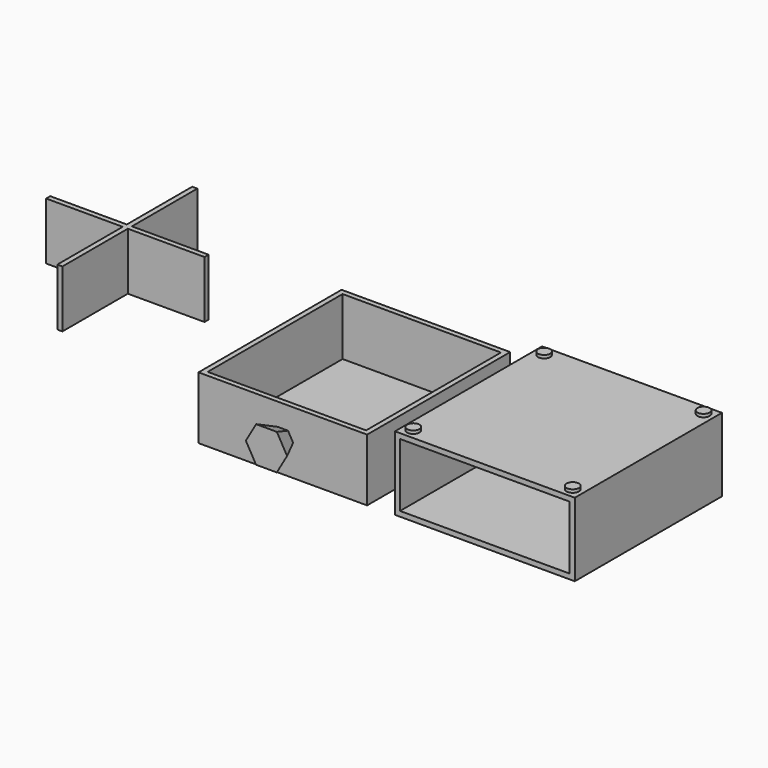
from build123d import *

# Parameters (mm, degrees)
F0_W      = 166
F0_H      = 62
F1_DEPTH  = 5
F0_W_2    = 176
F0_H_2    = 72
F2_DEPTH  = 180
F3_W      = 165
F3_H      = 61
F4_DEPTH  = 175
F5_T      = -5
F10_R     = 6
F11_DEPTH = 75
F10_R_2   = 7
F12_DEPTH = 3
F13_DEPTH = 314
F14_DEPTH = 5
F15_W     = 5
F15_H     = 80
F15_W_2   = 75
F15_H_2   = 5
F16_DEPTH = 56
F17_DEPTH = 3
F17_TAPER = -3


with BuildPart() as f1:
    # F0 (on Front) → F1 (new body)
    with BuildSketch(Plane.XZ):
        with Locations((61.2605069876, 18.4339095503)):
            Rectangle(F0_W, F0_H)
    extrude(amount=F1_DEPTH)

    # F0 (on Front) → F2 (join)
    with BuildSketch(Plane.XZ):
        with Locations((61.2605069876, 18.4339095503)):
            Rectangle(F0_W_2, F0_H_2)
        with Locations((61.2605069876, 18.4339095503)):
            Rectangle(F0_W, F0_H, mode=Mode.SUBTRACT)
    extrude(amount=F2_DEPTH)

    # F10 (on face) → F11 (join)
    with BuildSketch(Plane(origin=(0, 0, -17.5660904497), x_dir=(1, 0, 0), z_dir=(0, 0, -1))):
        with Locations((-16.7394930124, 170)):
            Circle(F10_R)
        with Locations((139.2605069876, 170)):
            Circle(F10_R)
        with Locations((139.2605069876, 10)):
            Circle(F10_R)
        with Locations((-16.7394930124, 10)):
            Circle(F10_R)
    extrude(amount=-F11_DEPTH)

    # F10 (on face) → F12 (cut)
    with BuildSketch(Plane(origin=(0, 0, -17.5660904497), x_dir=(1, 0, 0), z_dir=(0, 0, -1))):
        with Locations((-16.7394930124, 170)):
            Circle(F10_R_2)
        with Locations((-16.7394930124, 170)):
            Circle(F10_R, mode=Mode.SUBTRACT)
        with Locations((139.2605069876, 170)):
            Circle(F10_R_2)
        with Locations((139.2605069876, 170)):
            Circle(F10_R, mode=Mode.SUBTRACT)
        with Locations((139.2605069876, 10)):
            Circle(F10_R_2)
        with Locations((139.2605069876, 10)):
            Circle(F10_R, mode=Mode.SUBTRACT)
        with Locations((-16.7394930124, 10)):
            Circle(F10_R_2)
        with Locations((-16.7394930124, 10)):
            Circle(F10_R, mode=Mode.SUBTRACT)
    extrude(amount=-F12_DEPTH, mode=Mode.SUBTRACT)

    # F0 (on Front) → F13 (cut)
    with BuildSketch(Plane.XZ):
        with Locations((61.2605069876, 18.4339095503)):
            Rectangle(F0_W, F0_H)
    extrude(amount=F13_DEPTH, mode=Mode.SUBTRACT)

    # F0 (on Front) → F14 (join)
    with BuildSketch(Plane.XZ):
        with Locations((61.2605069876, 18.4339095503)):
            Rectangle(F0_W, F0_H)
    extrude(amount=F14_DEPTH)

    # F10 (on face) → F17 (cut)
    with BuildSketch(Plane(origin=(0, 0, -17.5660904497), x_dir=(1, 0, 0), z_dir=(0, 0, -1))):
        with Locations((-16.7394930124, 10)):
            Circle(F10_R)
        with Locations((139.2605069876, 10)):
            Circle(F10_R)
        with Locations((139.2605069876, 170)):
            Circle(F10_R)
        with Locations((-16.7394930124, 170)):
            Circle(F10_R)
    extrude(amount=-F17_DEPTH, taper=F17_TAPER, mode=Mode.SUBTRACT)


with BuildPart() as f4:
    # F3 (on Front) → F4 (new body)
    with BuildSketch(Plane.XZ):
        with Locations((-140.4871451855, 8.8723950386)):
            Rectangle(F3_W, F3_H)
        with Locations((-140.4871451855, 8.8723950386)):
            Rectangle(F3_W, F3_H)
    extrude(amount=F4_DEPTH)

    # F5
    f5_openings = [f4.faces().sort_by_distance(p)[0] for p in [
        (-140.487145, -87.5, 39.372395),
    ]]
    offset(amount=F5_T, openings=f5_openings)

    # F6 (on face) → F9 section 0
    with BuildSketch(Plane.XZ.offset(175)):
        Polygon((-130.3835418418, 8.8493124353), (-135.4153533928, 17.6108309024), (-145.5189567365, 17.6339135056), (-150.5907485292, 8.8954776419), (-145.5589369781, 0.1339591748), (-135.4553336344, 0.1108765716), align=None)
    # F8 (on offset) → F9 section 1
    with BuildSketch(Plane.XZ.offset(195)):
        Polygon((-120.2799384981, 8.8262298321), (-130.3435616002, 26.3492667662), (-150.5507682876, 26.3954319727), (-160.6943518729, 8.9185602451), (-150.6307287708, -8.6044766889), (-130.4235220834, -8.6506418955), align=None)
    loft()


with BuildPart() as f16:
    # F15 (on face) → F16 (new body)
    with BuildSketch(Plane.XY.offset(-16.6276049614)):
        with Locations((-416.180999279, 21.8830779195)):
            Rectangle(F15_W, F15_H)
        with Locations((-456.180999279, -20.6169220805)):
            Rectangle(F15_W_2, F15_H_2)
        with Locations((-416.180999279, -20.6169220805)):
            Rectangle(F15_W, F15_H_2)
        with Locations((-376.180999279, -20.6169220805)):
            Rectangle(F15_W_2, F15_H_2)
        with Locations((-416.180999279, -63.1169220805)):
            Rectangle(F15_W, F15_H)
    extrude(amount=F16_DEPTH)


solid = Compound([f1.part, f4.part, f16.part])
